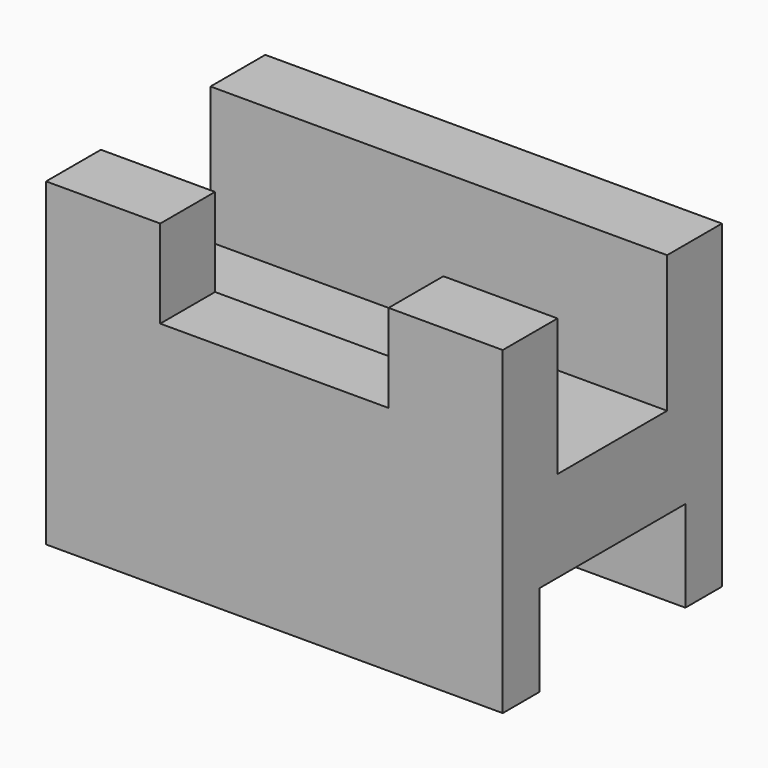
from build123d import *

# Parameters (mm, degrees)
F0_W     = 63.5
F0_H     = 44.45
F1_DEPTH = 38.1
F2_W     = 19.05
F2_H     = 19.05
F3_DEPTH = 63.501
F4_W     = 31.75
F4_H     = 12.251506
F5_DEPTH = 9.525
F6_W     = 25.4
F6_H     = 12.7
F7_DEPTH = 63.501


with BuildPart() as f1:
    # F0 (on Front) → F1 (new body)
    with BuildSketch(Plane.XZ):
        Rectangle(F0_W, F0_H)
    extrude(amount=F1_DEPTH)

    # F2 (on face) → F3 (cut, through all)
    with BuildSketch(Plane.YZ.offset(31.75)):
        with Locations((-19.05, 12.7)):
            Rectangle(F2_W, F2_H)
    extrude(amount=-F3_DEPTH, mode=Mode.SUBTRACT)

    # F4 (on face) → F5 (cut)
    with BuildSketch(Plane.XZ.offset(38.1)):
        with Locations((0, 16.099247)):
            Rectangle(F4_W, F4_H)
    extrude(amount=-F5_DEPTH, mode=Mode.SUBTRACT)

    # F6 (on face) → F7 (cut, through all)
    with BuildSketch(Plane.YZ.offset(31.75)):
        with Locations((-19.05, -15.875)):
            Rectangle(F6_W, F6_H)
    extrude(amount=-F7_DEPTH, mode=Mode.SUBTRACT)


solid = f1.part
